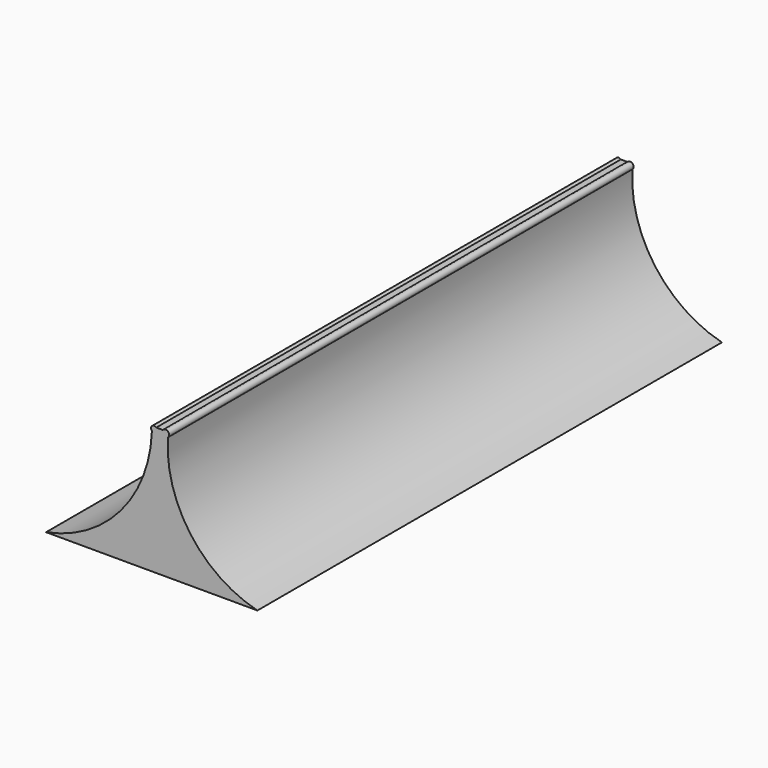
from build123d import *

# Parameters (mm, degrees)
F1_DEPTH = 2133.6


with BuildPart() as f1:
    # F0 (on Front) → F1 (new body)
    with BuildSketch(Plane.XZ):
        with BuildLine():
            ThreePointArc((-0.27041, 226.486726), (-115.087389, -68.746585), (-389.148504, -227.605492))
            Line((-389.148504, -227.605492), (387.464732, -228.379771))
            ThreePointArc((387.464732, -228.379771), (141.321633, -61.134424), (58.43205, 224.674512))
            ThreePointArc((58.43205, 224.674512), (59.008561, 243.586212), (40.115219, 242.573104))
            Line((40.115219, 242.573104), (15.73921, 242.573104))
            ThreePointArc((15.73921, 242.573104), (-0.17472, 242.401296), (-0.27041, 226.486726))
        make_face()
    extrude(amount=F1_DEPTH)


solid = f1.part
